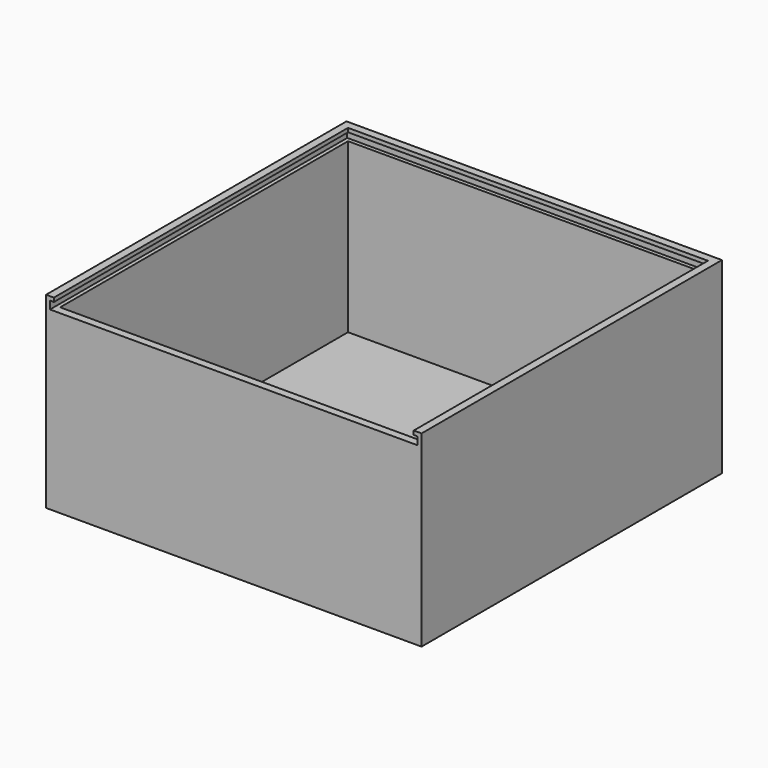
from build123d import *

# Parameters (mm, degrees)
F0_W      = 1219.2
F0_H      = 609.6
F1_DEPTH  = 609.6
F2_W      = 1168.4
F2_H      = 1168.4
F3_DEPTH  = 584.2
F4_W      = 1168.4
F4_H      = 25.4
F5_DEPTH  = 38.1
F7_DEPTH  = 12.7
F9_DEPTH  = 12.7
F11_DEPTH = 12.7


with BuildPart() as f1:
    # F0 (on Front) → F1 (new body, symmetric)
    with BuildSketch(Plane.XZ):
        Rectangle(F0_W, F0_H)
    extrude(amount=F1_DEPTH, both=True)

    # F2 (on face) → F3 (cut)
    with BuildSketch(Plane.XY.offset(304.8)):
        Rectangle(F2_W, F2_H)
    extrude(amount=-F3_DEPTH, mode=Mode.SUBTRACT)

    # F4 (on face) → F5 (cut)
    with BuildSketch(Plane.XY.offset(304.8)):
        with Locations((0, -596.9)):
            Rectangle(F4_W, F4_H)
    extrude(amount=-F5_DEPTH, mode=Mode.SUBTRACT)

    # F6 (on face) → F7 (cut)
    with BuildSketch(Plane.YZ.offset(-584.2)):
        Polygon((-609.6, 292.1), (-609.6, 266.7), (-584.2, 266.7), (584.2, 266.7), (584.2, 292.1), align=None)
    extrude(amount=-F7_DEPTH, mode=Mode.SUBTRACT)

    # F8 (on face) → F9 (cut)
    with BuildSketch(Plane.XZ.offset(-584.2)):
        Polygon((-596.9, 292.1), (-596.9, 266.7), (-584.2, 266.7), (584.2, 266.7), (584.2, 292.1), (-584.2, 292.1), align=None)
    extrude(amount=-F9_DEPTH, mode=Mode.SUBTRACT)

    # F10 (on face) → F11 (cut)
    with BuildSketch(Plane(origin=(584.2, 0, 0), x_dir=(0, -1, 0), z_dir=(-1, 0, 0))):
        Polygon((-596.9, 292.1), (-596.9, 266.7), (-584.2, 266.7), (584.2, 266.7), (609.6, 266.7), (609.6, 292.1), (-584.2, 292.1), align=None)
    extrude(amount=-F11_DEPTH, mode=Mode.SUBTRACT)


solid = f1.part
